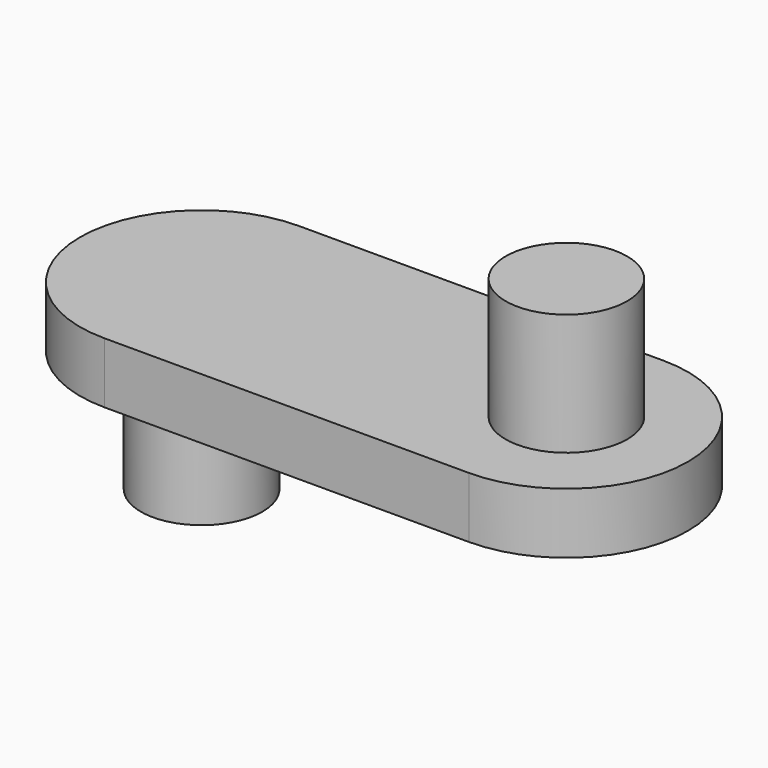
from build123d import *

# Parameters (mm, degrees)
F0_W     = 120
F0_H     = 40
F0_R     = 5
F1_DEPTH = 15
F2_W     = 30
F2_H     = 20
F3_DEPTH = 5
F4_R     = 5
F5_DEPTH = 10
F6_R     = 5
F7_DEPTH = 15


with BuildPart() as f1:
    # F0 (on Top) → F1 (new body)
    with BuildSketch(Plane.XY):
        with Locations((1.207285, -19.949235)):
            Rectangle(F0_W, F0_H)
        with Locations((-38.792715, -19.949235)):
            Circle(F0_R, mode=Mode.SUBTRACT)
        with Locations((41.207285, -19.949235)):
            Circle(F0_R, mode=Mode.SUBTRACT)
    extrude(amount=F1_DEPTH)


with BuildPart() as f3:
    # F2 (on Top) → F3 (new body)
    with BuildSketch(Plane.XY):
        with Locations((-1.097531, 18.129884)):
            Rectangle(F2_W, F2_H)
        with BuildLine():
            Line((-16.097531, 8.129884), (-16.097531, 28.129884))
            ThreePointArc((-16.097531, 28.129884), (-26.097531, 18.129884), (-16.097531, 8.129884))
        make_face()
        with BuildLine():
            ThreePointArc((13.902469, 8.129884), (23.902469, 18.129884), (13.902469, 28.129884))
            Line((13.902469, 28.129884), (13.902469, 8.129884))
        make_face()
    extrude(amount=F3_DEPTH)

    # F4 (on face) → F5 (join)
    with BuildSketch(Plane(origin=(0, 0, 0), x_dir=(1, 0, 0), z_dir=(0, 0, -1))):
        with Locations((-16.097531, -18.129884)):
            Circle(F4_R)
    extrude(amount=F5_DEPTH)

    # F6 (on Top) → F7 (join)
    with BuildSketch(Plane.XY):
        with Locations((13.902469, 18.129884)):
            Circle(F6_R)
    extrude(amount=F7_DEPTH)


solid = f3.part
